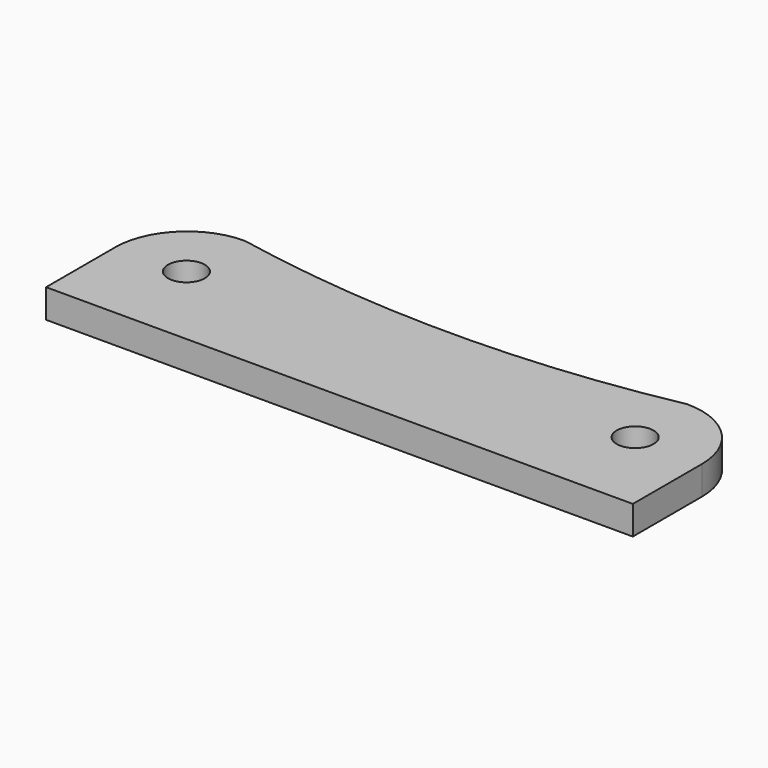
from build123d import *

# Parameters (mm, degrees)
F0_R     = 2.032
F1_DEPTH = 3.175


with BuildPart() as f1:
    # F0 (on Top) → F1 (new body)
    with BuildSketch(Plane.XY):
        with BuildLine():
            ThreePointArc((56.8325, 0), (32.385, -2.3876), (7.9375, 0))
            ThreePointArc((7.9375, 0), (2.32484, -2.32484), (0, -7.9375))
            Line((0, -7.9375), (0, -17.4625))
            Line((0, -17.4625), (64.77, -17.4625))
            Line((64.77, -17.4625), (64.77, -7.9375))
            ThreePointArc((64.77, -7.9375), (62.44516, -2.32484), (56.8325, 0))
        make_face()
        with Locations((7.62, -7.62)):
            Circle(F0_R, mode=Mode.SUBTRACT)
        with Locations((57.15, -7.62)):
            Circle(F0_R, mode=Mode.SUBTRACT)
    extrude(amount=-F1_DEPTH)


solid = f1.part
